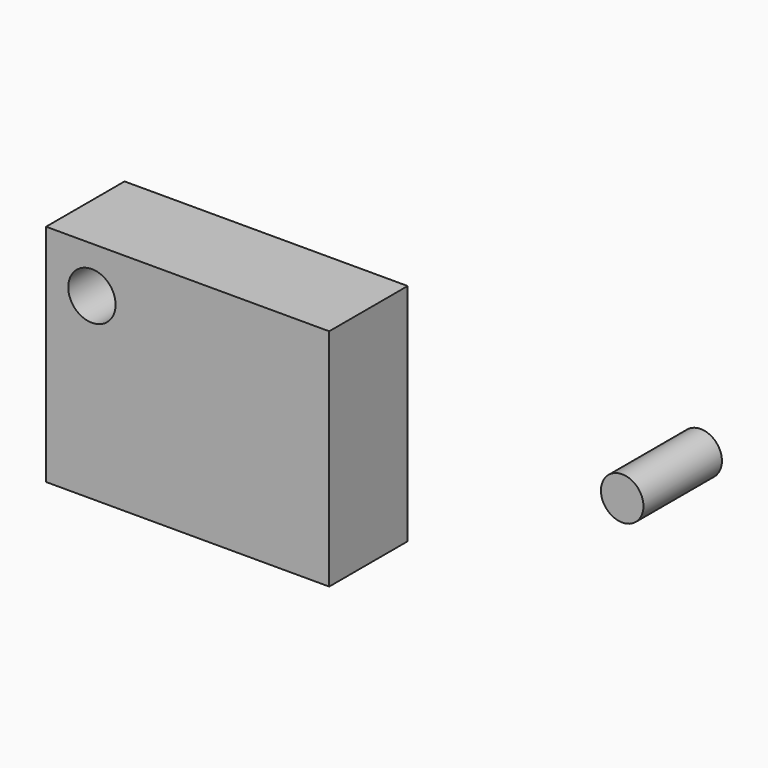
from build123d import *

# Parameters (mm, degrees)
F0_W     = 73.323604
F0_H     = 58.211155
F0_R     = 6.131829
F0_R_2   = 5.507015
F1_DEPTH = 25.4


with BuildPart() as f1:
    # F0 (on Front) → F1 (new body)
    with BuildSketch(Plane.XZ):
        with Locations((-19.645693, 1.136731)):
            Rectangle(F0_W, F0_H)
        with Locations((-44.437636, 18.31474)):
            Circle(F0_R, mode=Mode.SUBTRACT)
        with Locations((92.898004, 16.822686)):
            Circle(F0_R_2)
    extrude(amount=F1_DEPTH)


solid = f1.part
